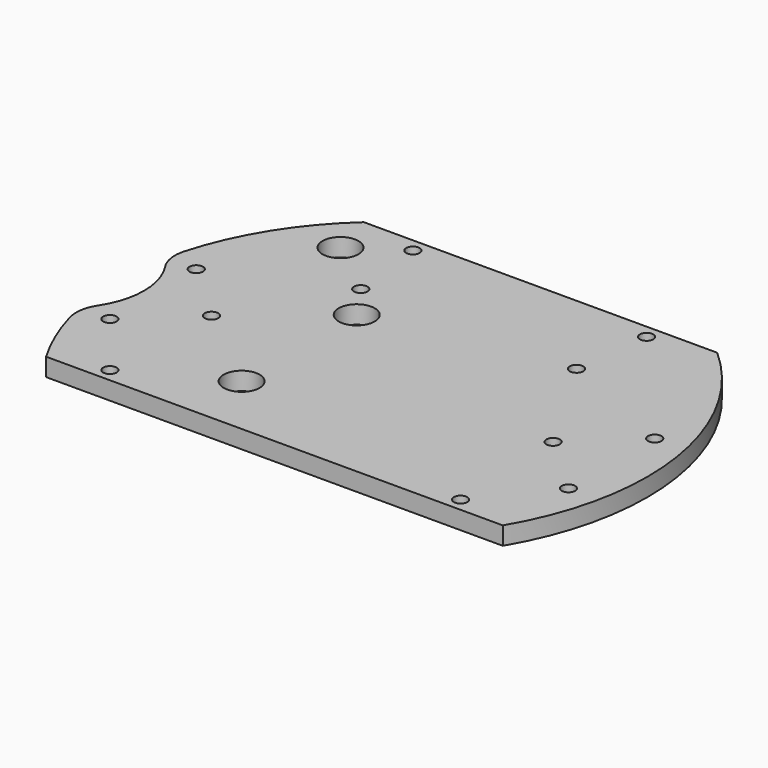
from build123d import *

# Parameters (mm, degrees)
CYLINDER1834_R     = 17
CYLINDER1834_DEPTH = 160
CYLINDER1871_R     = 1.5
CYLINDER1871_DEPTH = 100
CYLINDER1829_R     = 1.5
CYLINDER1829_DEPTH = 100
CYLINDER1810_R     = 1.5
CYLINDER1810_DEPTH = 32
CYLINDER1802_R     = 1.5
CYLINDER1802_DEPTH = 32
BOX549_W           = 200
BOX549_H           = 100
BOX549_DEPTH       = 100
BOX550_W           = 200
BOX550_H           = 100
BOX550_DEPTH       = 100
CYLINDER1813_R     = 4
CYLINDER1813_DEPTH = 100
CYLINDER1800_R     = 4
CYLINDER1800_DEPTH = 100
CYLINDER1816_R     = 4
CYLINDER1816_DEPTH = 100
CYLINDER1815_R     = 4
CYLINDER1815_DEPTH = 100
CYLINDER1812_R     = 4
CYLINDER1812_DEPTH = 100
CYLINDER1801_R     = 4
CYLINDER1801_DEPTH = 100
CYLINDER1811_R     = 4
CYLINDER1811_DEPTH = 100
CYLINDER1814_R     = 4
CYLINDER1814_DEPTH = 100
CYLINDER1821_R     = 1.5
CYLINDER1821_DEPTH = 100
CYLINDER1820_R     = 1.5
CYLINDER1820_DEPTH = 100
CYLINDER1819_R     = 1.5
CYLINDER1819_DEPTH = 100
CYLINDER1818_R     = 1.5
CYLINDER1818_DEPTH = 100
CYLINDER1808_R     = 1.5
CYLINDER1808_DEPTH = 100
CYLINDER1807_R     = 1.5
CYLINDER1807_DEPTH = 100
CYLINDER1799_R     = 1.5
CYLINDER1799_DEPTH = 100
CYLINDER1822_R     = 1.5
CYLINDER1822_DEPTH = 100
CYLINDER1823_R     = 59
CYLINDER1823_DEPTH = 4
FILLET023_R        = 8


with BuildPart() as obj1:
    # Cylinder1834 → Cylinder1834 (new body)
    with BuildSketch(Plane(origin=(-18, 0, -60), x_dir=(1, 0, 0), z_dir=(0, 0, 1))):
        Circle(CYLINDER1834_R)
    extrude(amount=CYLINDER1834_DEPTH)


with BuildPart() as obj2:
    # Cylinder1871 → Cylinder1871 (new body)
    with BuildSketch(Plane(origin=(14, 0, -60), x_dir=(1, 0, 0), z_dir=(0, 0, 1))):
        Circle(CYLINDER1871_R)
    extrude(amount=CYLINDER1871_DEPTH)


with BuildPart() as obj3:
    # Cylinder1829 → Cylinder1829 (new body)
    with BuildSketch(Plane(origin=(90, 0, -60), x_dir=(1, 0, 0), z_dir=(0, 0, 1))):
        Circle(CYLINDER1829_R)
    extrude(amount=CYLINDER1829_DEPTH)

    # Compound967: union obj2
    add(obj2.part)


with BuildPart() as obj4:
    # Cylinder1810 → Cylinder1810 (new body)
    with BuildSketch(Plane(origin=(78, 41, -42), x_dir=(1, 0, 0), z_dir=(0, 0, 1))):
        Circle(CYLINDER1810_R)
    extrude(amount=CYLINDER1810_DEPTH)


with BuildPart() as compound969:
    # Cylinder1802 → Cylinder1802 (new body)
    with BuildSketch(Plane(origin=(26, 41, -42), x_dir=(1, 0, 0), z_dir=(0, 0, 1))):
        Circle(CYLINDER1802_R)
    extrude(amount=CYLINDER1802_DEPTH)

    # Compound969: union obj4
    add(obj4.part)


with BuildPart() as krychle549:
    # Box549 → Box549 (new body)
    with BuildSketch(Plane(origin=(-60, 44, -90), x_dir=(1, 0, 0), z_dir=(0, 0, 1))):
        with Locations((100, 50)):
            Rectangle(BOX549_W, BOX549_H)
    extrude(amount=BOX549_DEPTH)


with BuildPart() as krychle550:
    # Box550 → Box550 (new body)
    with BuildSketch(Plane(origin=(-60, -130, -90), x_dir=(1, 0, 0), z_dir=(0, 0, 1))):
        with Locations((100, 50)):
            Rectangle(BOX550_W, BOX550_H)
    extrude(amount=BOX550_DEPTH)


with BuildPart() as obj5:
    # Cylinder1813 → Cylinder1813 (new body)
    with BuildSketch(Plane(origin=(-16, 34, -90), x_dir=(1, 0, 0), z_dir=(0, 0, 1))):
        Circle(CYLINDER1813_R)
    extrude(amount=CYLINDER1813_DEPTH)


with BuildPart() as obj6:
    # Cylinder1800 → Cylinder1800 (new body)
    with BuildSketch(Plane(origin=(-16, -34, -90), x_dir=(1, 0, 0), z_dir=(0, 0, 1))):
        Circle(CYLINDER1800_R)
    extrude(amount=CYLINDER1800_DEPTH)


with BuildPart() as obj7:
    # Cylinder1816 → Cylinder1816 (new body)
    with BuildSketch(Plane(origin=(34, -16, -90), x_dir=(1, 0, 0), z_dir=(0, 0, 1))):
        Circle(CYLINDER1816_R)
    extrude(amount=CYLINDER1816_DEPTH)


with BuildPart() as obj8:
    # Cylinder1815 → Cylinder1815 (new body)
    with BuildSketch(Plane(origin=(16, 34, -90), x_dir=(1, 0, 0), z_dir=(0, 0, 1))):
        Circle(CYLINDER1815_R)
    extrude(amount=CYLINDER1815_DEPTH)


with BuildPart() as obj9:
    # Cylinder1812 → Cylinder1812 (new body)
    with BuildSketch(Plane(origin=(16, -34, -90), x_dir=(1, 0, 0), z_dir=(0, 0, 1))):
        Circle(CYLINDER1812_R)
    extrude(amount=CYLINDER1812_DEPTH)


with BuildPart() as obj10:
    # Cylinder1801 → Cylinder1801 (new body)
    with BuildSketch(Plane(origin=(-34, 16, -90), x_dir=(1, 0, 0), z_dir=(0, 0, 1))):
        Circle(CYLINDER1801_R)
    extrude(amount=CYLINDER1801_DEPTH)


with BuildPart() as obj11:
    # Cylinder1811 → Cylinder1811 (new body)
    with BuildSketch(Plane(origin=(34, 16, -90), x_dir=(1, 0, 0), z_dir=(0, 0, 1))):
        Circle(CYLINDER1811_R)
    extrude(amount=CYLINDER1811_DEPTH)


with BuildPart() as obj12:
    # Cylinder1814 → Cylinder1814 (new body)
    with BuildSketch(Plane(origin=(-34, -16, -90), x_dir=(1, 0, 0), z_dir=(0, 0, 1))):
        Circle(CYLINDER1814_R)
    extrude(amount=CYLINDER1814_DEPTH)

    # Compound970: union obj5, obj6, obj7, obj8, obj9, obj10, obj11
    add(obj5.part)
    add(obj6.part)
    add(obj7.part)
    add(obj8.part)
    add(obj9.part)
    add(obj10.part)
    add(obj11.part)


with BuildPart() as obj12_1:
    # Compound970 placement: moved
    add(obj12.part.moved(Location((-0.5, 0, 0))))


with BuildPart() as obj13:
    # Cylinder1821 → Cylinder1821 (new body)
    with BuildSketch(Plane(origin=(103, 12, -60), x_dir=(1, 0, 0), z_dir=(0, 0, 1))):
        Circle(CYLINDER1821_R)
    extrude(amount=CYLINDER1821_DEPTH)


with BuildPart() as obj14:
    # Cylinder1820 → Cylinder1820 (new body)
    with BuildSketch(Plane(origin=(76, 24, -60), x_dir=(1, 0, 0), z_dir=(0, 0, 1))):
        Circle(CYLINDER1820_R)
    extrude(amount=CYLINDER1820_DEPTH)


with BuildPart() as obj15:
    # Cylinder1819 → Cylinder1819 (new body)
    with BuildSketch(Plane(origin=(91, -27, -60), x_dir=(1, 0, 0), z_dir=(0, 0, 1))):
        Circle(CYLINDER1819_R)
    extrude(amount=CYLINDER1819_DEPTH)


with BuildPart() as obj16:
    # Cylinder1818 → Cylinder1818 (new body)
    with BuildSketch(Plane(origin=(13, -27, -60), x_dir=(1, 0, 0), z_dir=(0, 0, 1))):
        Circle(CYLINDER1818_R)
    extrude(amount=CYLINDER1818_DEPTH)


with BuildPart() as obj17:
    # Cylinder1808 → Cylinder1808 (new body)
    with BuildSketch(Plane(origin=(28, 24, -60), x_dir=(1, 0, 0), z_dir=(0, 0, 1))):
        Circle(CYLINDER1808_R)
    extrude(amount=CYLINDER1808_DEPTH)


with BuildPart() as obj18:
    # Cylinder1807 → Cylinder1807 (new body)
    with BuildSketch(Plane(origin=(1, -12, -60), x_dir=(1, 0, 0), z_dir=(0, 0, 1))):
        Circle(CYLINDER1807_R)
    extrude(amount=CYLINDER1807_DEPTH)


with BuildPart() as obj19:
    # Cylinder1799 → Cylinder1799 (new body)
    with BuildSketch(Plane(origin=(1, 12, -60), x_dir=(1, 0, 0), z_dir=(0, 0, 1))):
        Circle(CYLINDER1799_R)
    extrude(amount=CYLINDER1799_DEPTH)


with BuildPart() as obj20:
    # Cylinder1822 → Cylinder1822 (new body)
    with BuildSketch(Plane(origin=(103, -12, -60), x_dir=(1, 0, 0), z_dir=(0, 0, 1))):
        Circle(CYLINDER1822_R)
    extrude(amount=CYLINDER1822_DEPTH)

    # Compound968: union obj13, obj14, obj15, obj16, obj17, obj18, obj19
    add(obj13.part)
    add(obj14.part)
    add(obj15.part)
    add(obj16.part)
    add(obj17.part)
    add(obj18.part)
    add(obj19.part)


with BuildPart() as fillet023:
    # Cylinder1823 → Cylinder1823 (new body)
    with BuildSketch(Plane(origin=(52, 0, -26), x_dir=(1, 0, 0), z_dir=(0, 0, 1))):
        Circle(CYLINDER1823_R)
    extrude(amount=CYLINDER1823_DEPTH)

    # Cut621: cut obj20
    add(obj20.part, mode=Mode.SUBTRACT)

    # Cut622: cut obj12
    add(obj12_1.part, mode=Mode.SUBTRACT)

    # Cut623: cut Krychle550
    add(krychle550.part, mode=Mode.SUBTRACT)

    # Cut626: cut Krychle549
    add(krychle549.part, mode=Mode.SUBTRACT)

    # Cut627: cut Compound969
    add(compound969.part, mode=Mode.SUBTRACT)

    # Cut624: cut obj3
    add(obj3.part, mode=Mode.SUBTRACT)

    # Cut612: cut obj1
    add(obj1.part, mode=Mode.SUBTRACT)

    # Fillet023
    fillet023_edges = [fillet023.edges().sort_by_distance(p)[0] for p in [
        (-5.8, -11.838919, -24),
        (-5.8, 11.838919, -24),
    ]]
    fillet(fillet023_edges, radius=FILLET023_R)


solid = fillet023.part
